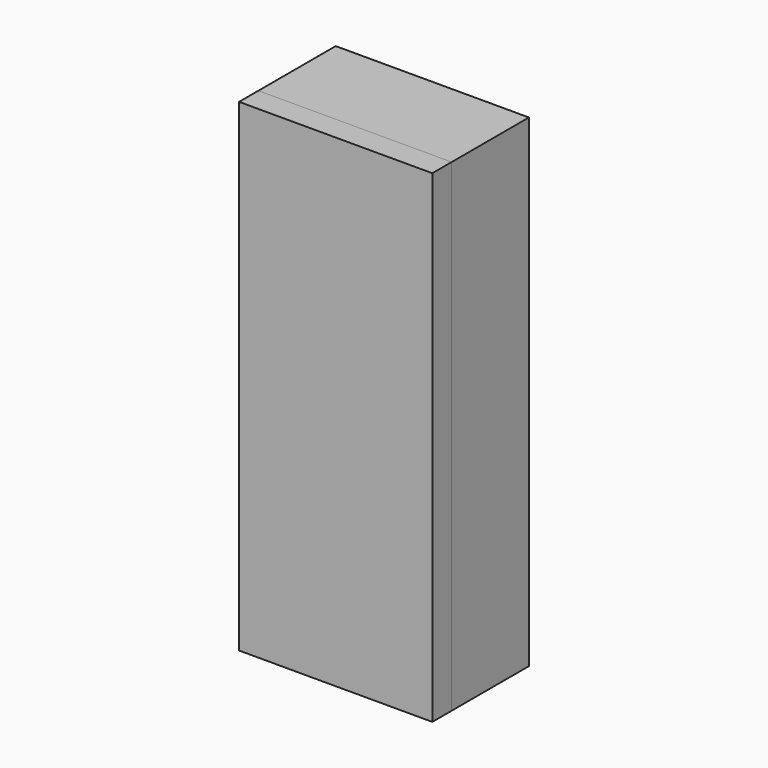
from build123d import *

# Parameters (mm, degrees)
F0_W      = 50.8
F0_H      = 25.4
F1_DEPTH  = 127
F1_FACE_W = 50.8
F1_FACE_H = 127
F2_DEPTH  = 6.35


with BuildPart() as f1:
    # F0 (on Top) → F1 (new body)
    with BuildSketch(Plane.XY):
        with Locations((25.4, 12.7)):
            Rectangle(F0_W, F0_H)
    extrude(amount=F1_DEPTH)


with BuildPart() as f2:
    # F1_face (on face) → F2 (new body)
    with BuildSketch(Plane(origin=(25.4, 0, 63.5), x_dir=(1, 0, 0), z_dir=(0, -1, 0))):
        Rectangle(F1_FACE_W, F1_FACE_H)
    extrude(amount=F2_DEPTH)


solid = Compound([f1.part, f2.part])
